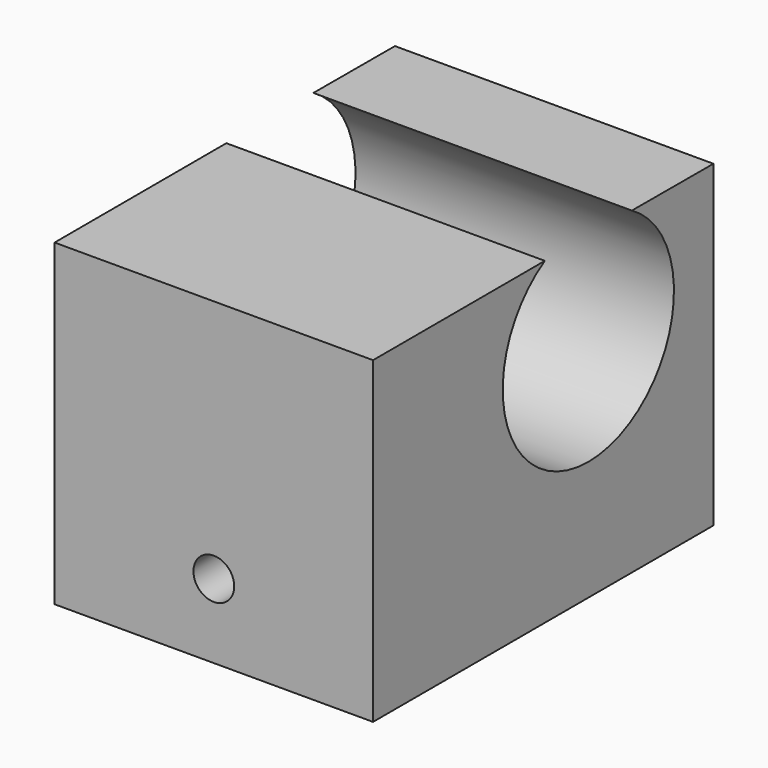
from build123d import *

# Parameters (mm, degrees)
F1_DEPTH = 25
F2_R     = 1.6
F3_DEPTH = 39.6


with BuildPart() as f1:
    # F0 (on Right) → F1 (new body)
    with BuildSketch(Plane.YZ):
        with BuildLine():
            ThreePointArc((4.121417, 17.091007), (-0.148037, 1.457587), (-4.421588, 17.089888))
            Line((-4.421588, 17.089888), (-21.274423, 17.07466))
            Line((-21.274423, 17.07466), (-21.274423, -7.92534))
            Line((-21.274423, -7.92534), (12.122666, -7.92534))
            Line((12.122666, -7.92534), (12.122666, 17.07466))
            Line((12.122666, 17.07466), (4.121417, 17.091007))
        make_face()
    extrude(amount=F1_DEPTH)

    # F2 (on face) → F3 (cut)
    with BuildSketch(Plane(origin=(0, 12.122666, 0), x_dir=(-1, 0, 0), z_dir=(0, 1, 0))):
        with Locations((-12.5, -2.1)):
            Circle(F2_R)
    extrude(amount=-F3_DEPTH, mode=Mode.SUBTRACT)


solid = f1.part
